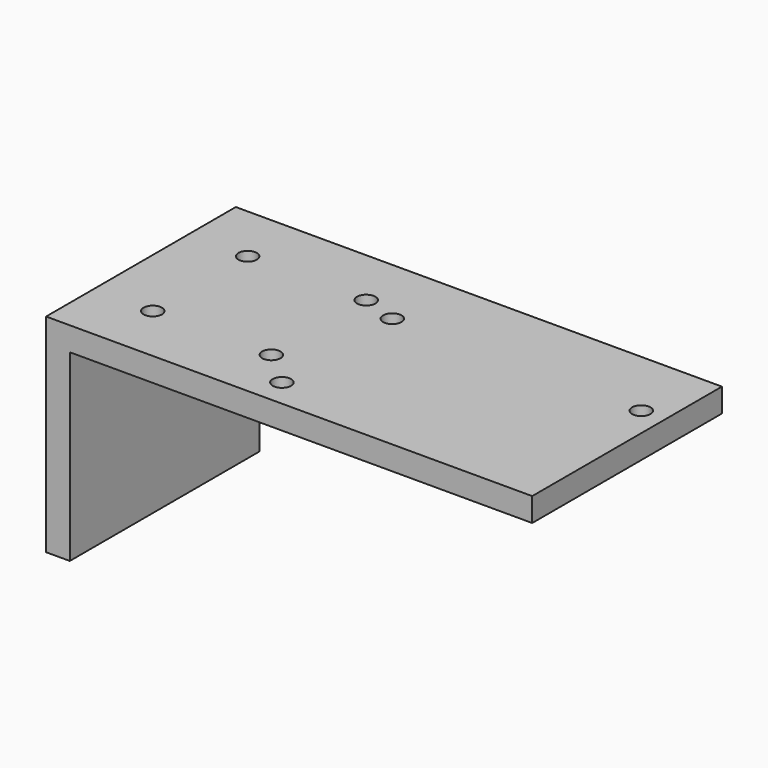
from build123d import *

# Parameters (mm, degrees)
F1_DEPTH = 40
F2_R     = 1.55
F3_DEPTH = 4


with BuildPart() as f1:
    # F0 (on Front) → F1 (new body)
    with BuildSketch(Plane.XZ):
        Polygon((82, 0), (0, 0), (0, -35), (4, -35), (4, -4), (82, -4), align=None)
    extrude(amount=F1_DEPTH)

    # F2 (on face) → F3 (cut, through all)
    with BuildSketch(Plane.XY):
        with Locations((30, -10)):
            Circle(F2_R)
        with Locations((10, -10)):
            Circle(F2_R)
        with Locations((10, -30)):
            Circle(F2_R)
        with Locations((30, -30)):
            Circle(F2_R)
        with Locations((36, -35.275)):
            Circle(F2_R)
        with Locations((36, -12)):
            Circle(F2_R)
        with Locations((78, -12)):
            Circle(F2_R)
    extrude(amount=-F3_DEPTH, mode=Mode.SUBTRACT)


solid = f1.part
